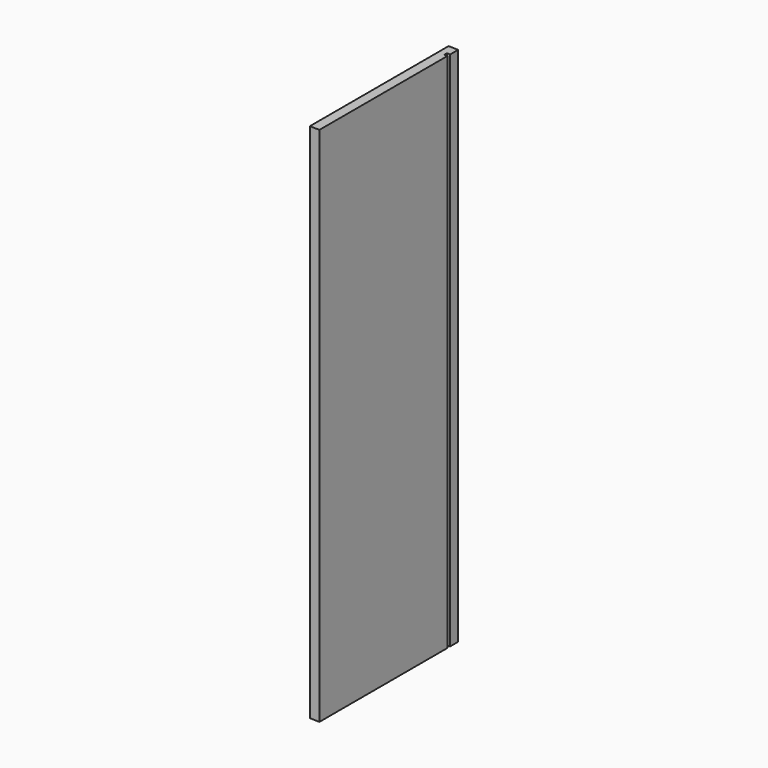
from build123d import *

# Parameters (mm, degrees)
F1_DEPTH = 962
F2_W     = 6
F2_H     = 962
F3_DEPTH = 6


with BuildPart() as f1:
    # F0 (on Top) → F1 (new body)
    with BuildSketch(Plane.XY):
        Polygon((-15.060008, -187.839949), (-15.060008, 132.160051), (-33.060008, 132.788625), (-33.060008, -187.211375), align=None)
    extrude(amount=F1_DEPTH)

    # F2 (on face) → F3 (cut)
    with BuildSketch(Plane.YZ.offset(-15.060008)):
        with Locations((110.788625, 481)):
            Rectangle(F2_W, F2_H)
    extrude(amount=-F3_DEPTH, mode=Mode.SUBTRACT)


solid = f1.part
